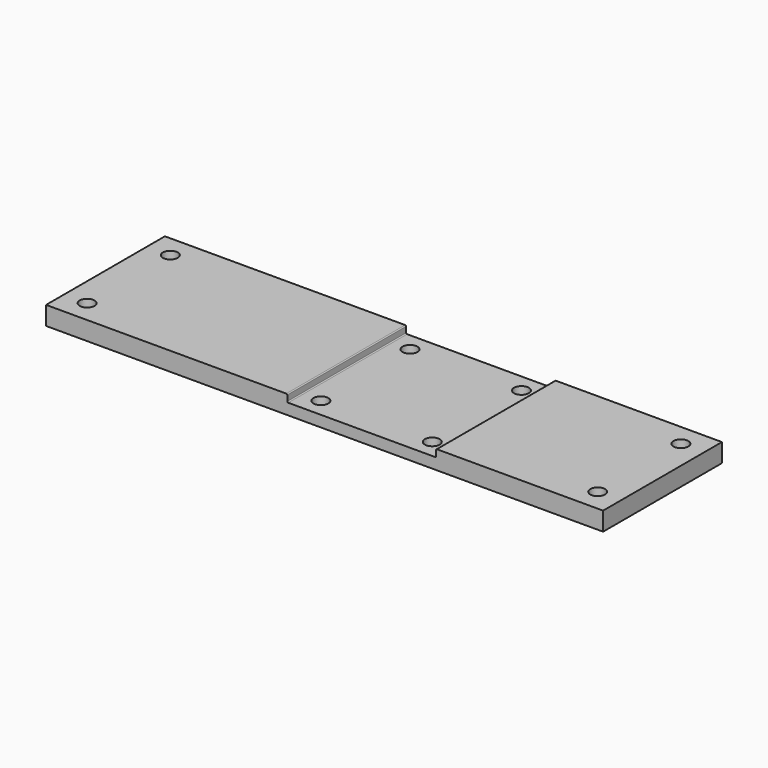
from build123d import *

# Parameters (mm, degrees)
F0_W     = 150
F0_H     = 40
F1_DEPTH = 5
F2_R     = 2
F3_DEPTH = 25
F4_R     = 2
F5_DEPTH = 25
F6_W     = 40.1
F6_H     = 40
F7_DEPTH = 2
F8_R     = 0.25


with BuildPart() as f1:
    # F0 (on Top) → F1 (new body)
    with BuildSketch(Plane.XY):
        with Locations((75, 20)):
            Rectangle(F0_W, F0_H)
    extrude(amount=F1_DEPTH)

    # F2 (on face) → F3 (cut)
    with BuildSketch(Plane.XY.offset(5)):
        with Locations((6.25, 34)):
            Circle(F2_R)
        with Locations((6.25, 6)):
            Circle(F2_R)
        with Locations((143.75, 34)):
            Circle(F2_R)
        with Locations((143.75, 6)):
            Circle(F2_R)
    extrude(amount=-F3_DEPTH, mode=Mode.SUBTRACT)

    # F4 (on face) → F5 (cut)
    with BuildSketch(Plane.XY.offset(5)):
        with Locations((70, 35)):
            Circle(F4_R)
        with Locations((70, 5)):
            Circle(F4_R)
        with Locations((100, 35)):
            Circle(F4_R)
        with Locations((100, 5)):
            Circle(F4_R)
    extrude(amount=-F5_DEPTH, mode=Mode.SUBTRACT)

    # F6 (on face) → F7 (cut)
    with BuildSketch(Plane.XY.offset(5)):
        with Locations((85, 20)):
            Rectangle(F6_W, F6_H)
    extrude(amount=-F7_DEPTH, mode=Mode.SUBTRACT)

    # F8
    f8_edges = [f1.edges().sort_by_distance(p)[0] for p in [
        (64.95, 20, 5),
        (64.95, 20, 3),
        (105.05, 20, 5),
        (105.05, 20, 3),
    ]]
    fillet(f8_edges, radius=F8_R)


solid = f1.part
